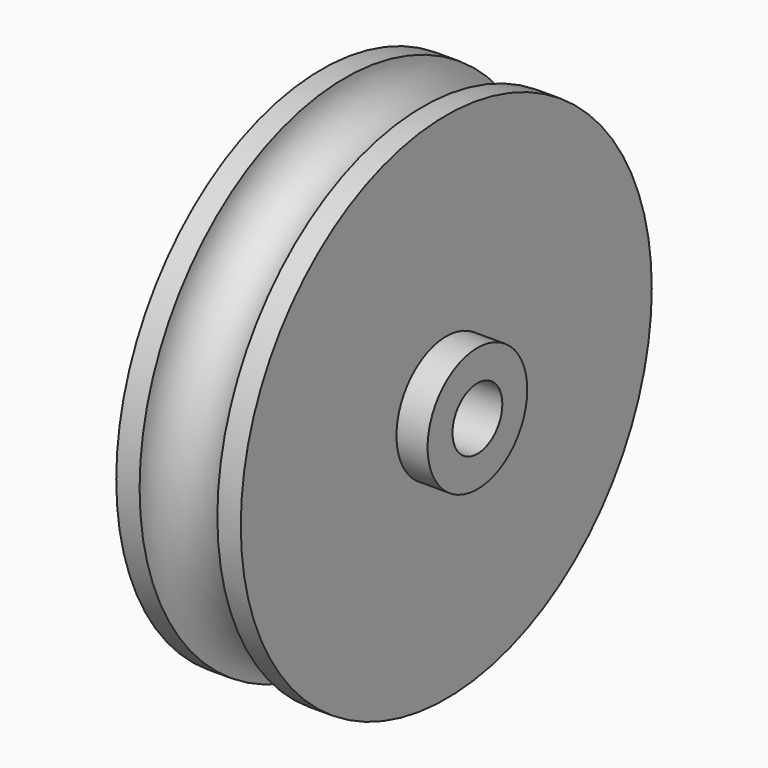
from build123d import *

# Parameters (mm, degrees)
F0_W = 1
F0_H = 1


with BuildPart() as f1:
    # F0 (on Top) → F1 (revolve)
    with BuildSketch(Plane.XY):
        with BuildLine():
            Line((-3.065665, 8.25), (-3.065665, 1))
            Line((-3.065665, 1), (0.934335, 1))
            Line((0.934335, 1), (0.934335, 2))
            Line((0.934335, 2), (0.934335, 8.25))
            Line((0.934335, 8.25), (0.182349, 8.25))
            ThreePointArc((0.182349, 8.25), (-1.066658, 6.950177), (-2.315665, 8.25))
            Line((-2.315665, 8.25), (-3.065665, 8.25))
        make_face()
        with Locations((1.434335, 1.5)):
            Rectangle(F0_W, F0_H)
    revolve(axis=Axis((0.100835, 0, 0), (1, 0, 0)))


solid = f1.part
